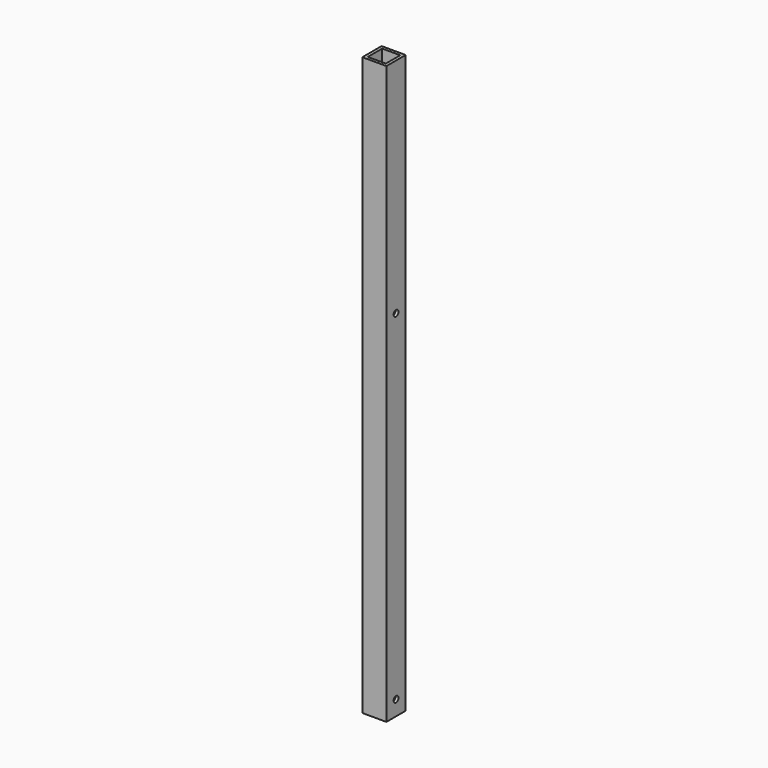
from build123d import *

# Parameters (mm, degrees)
F0_W     = 25.4
F0_H     = 25.4
F0_W_2   = 19.05
F0_H_2   = 19.05
F1_DEPTH = 304.8
F2_R     = 3.175
F3_DEPTH = 31.75


with BuildPart() as f1:
    # F0 (on Top) → F1 (new body, symmetric)
    with BuildSketch(Plane.XY):
        Rectangle(F0_W, F0_H)
        Rectangle(F0_W_2, F0_H_2, mode=Mode.SUBTRACT)
    extrude(amount=F1_DEPTH, both=True)

    # F2 (on face) → F3 (cut)
    with BuildSketch(Plane(origin=(-12.7, 0, 0), x_dir=(0, -1, 0), z_dir=(-1, 0, 0))):
        with Locations((0, 69.85)):
            Circle(F2_R)
        with Locations((0, -288.925)):
            Circle(F2_R)
    extrude(amount=-F3_DEPTH, mode=Mode.SUBTRACT)


solid = f1.part
